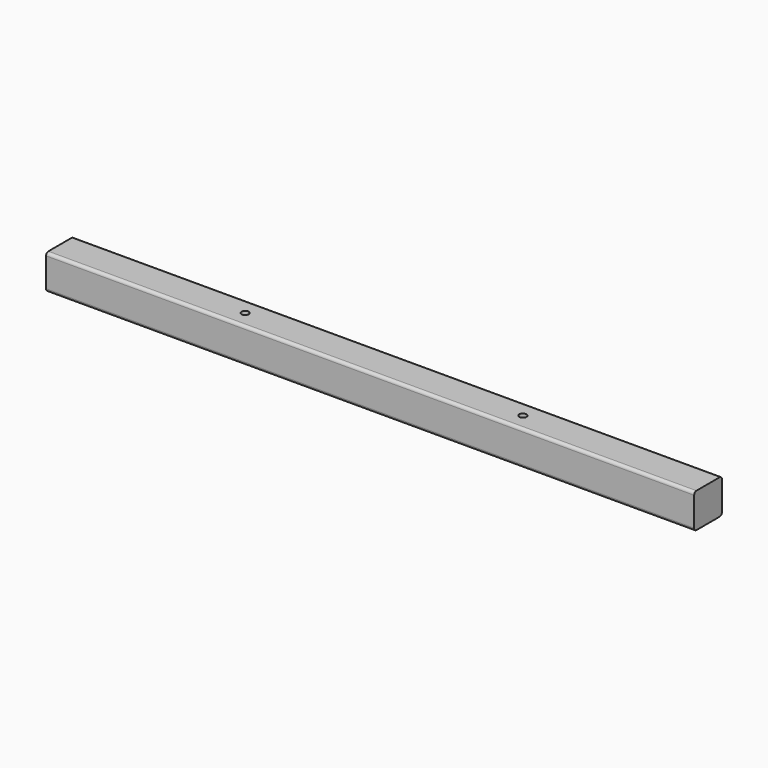
from build123d import *

# Parameters (mm, degrees)
CYLINDER_R                 = 3.96875
CYLINDER_DEPTH             = 50.8
EXTRUDE014_DEPTH           = 711.2
EXTRUDE014_ROLL_ANGLE      = -90
EXTRUDE014_PLACEMENT_ANGLE = -90
LINK022_ROLL_ANGLE         = -179.999993
LINK022_PITCH_ANGLE        = 7e-06


with BuildPart() as cylinder:
    # Cylinder → Cylinder (new body)
    with BuildSketch(Plane(origin=(381, 203.2, 16.66875), x_dir=(1, 0, 0), z_dir=(0, 0, 1))):
        Circle(CYLINDER_R)
    extrude(amount=CYLINDER_DEPTH)


with BuildPart() as cylinder005:
    # Link082 base: copy of Cylinder
    add(cylinder.part)


with BuildPart() as cylinder005_1:
    # Link082 placement: moved
    add(cylinder005.part.moved(Location((177.800232, 577.85011, -3.968745))))


with BuildPart() as cylinder004:
    # Link081 base: copy of Cylinder
    add(cylinder.part)


with BuildPart() as cylinder004_1:
    # Link081 placement: moved
    add(cylinder004.part.moved(Location((-126.999817, 577.850354, -3.968746))))


with BuildPart() as baffle_frame_b:
    # Sketch014 → Extrude014 (new body)
    with BuildSketch(Plane.XY):
        with BuildLine():
            Line((0, 34.925), (0, 3.175))
            ThreePointArc((0, 3.175), (0.929936, 0.929936), (3.175, 0))
            Line((34.925, 0), (3.175, 0))
            ThreePointArc((34.925, 0), (37.170064, 0.929936), (38.1, 3.175))
            Line((38.1, 34.925), (38.1, 3.175))
            ThreePointArc((38.1, 34.925), (37.170064, 37.170064), (34.925, 38.1))
            Line((3.175, 38.1), (34.925, 38.1))
            ThreePointArc((3.175, 38.1), (0.929936, 37.170064), (0, 34.925))
        make_face()
    extrude(amount=EXTRUDE014_DEPTH)


with BuildPart() as baffle_frame_b_1:
    # Extrude014 roll: moved
    add(baffle_frame_b.part.rotate(Axis((0, 0, 0), (1, 0, 0)), EXTRUDE014_ROLL_ANGLE))


with BuildPart() as baffle_frame_b_2:
    # Extrude014 placement: moved
    add(baffle_frame_b_1.part.moved(Location((50.8, 800.1, 196.85))).rotate(Axis((50.8, 800.1, 196.85), (0, 0, 1)), EXTRUDE014_PLACEMENT_ANGLE))


with BuildPart() as baffle_frame_b_3:
    # Link022 roll: moved
    add(baffle_frame_b_2.part.rotate(Axis((0, 0, 0), (1, 0, 0)), LINK022_ROLL_ANGLE))


with BuildPart() as baffle_frame_b_4:
    # Link022 pitch: moved
    add(baffle_frame_b_3.part.rotate(Axis((0, 0, 0), (0, 1, 0)), LINK022_PITCH_ANGLE))


with BuildPart() as baffle_frame_b_5:
    # Link022 placement: moved
    add(baffle_frame_b_4.part.moved(Location((3e-05, 1562.099977, 215.900066))))

    # Cut004: cut Cylinder004
    add(cylinder004_1.part, mode=Mode.SUBTRACT)

    # Cut005: cut Cylinder005
    add(cylinder005_1.part, mode=Mode.SUBTRACT)


solid = baffle_frame_b_5.part
